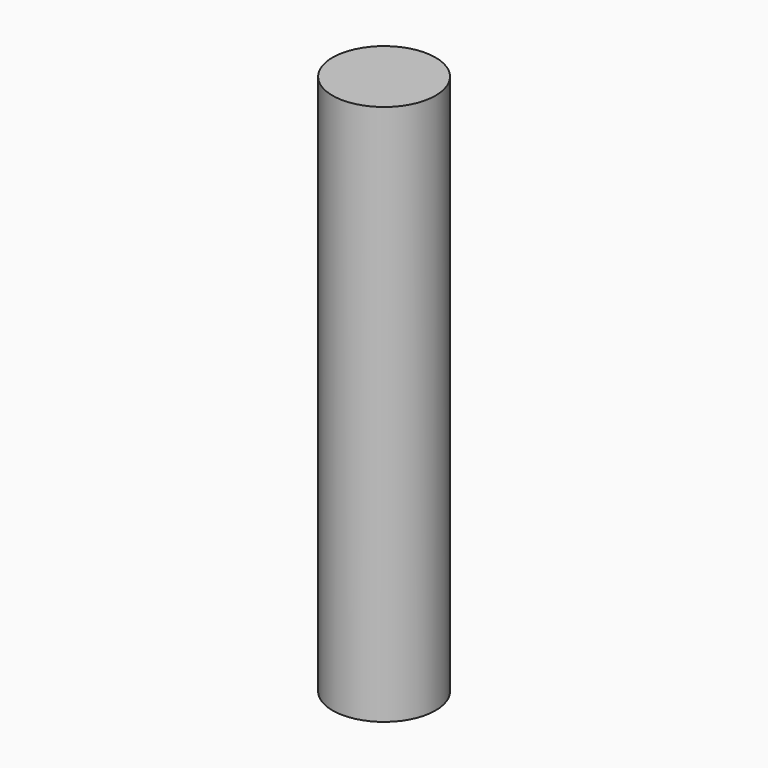
from build123d import *

# Parameters (mm, degrees)
F0_R     = 4
F1_DEPTH = 42


with BuildPart() as f1:
    # F0 (on Top) → F1 (new body)
    with BuildSketch(Plane.XY):
        Circle(F0_R)
    extrude(amount=F1_DEPTH)


with BuildPart() as f1_1:
    # F2: moved
    add(f1.part.moved(Location((0, 0, -12))))


solid = f1_1.part
